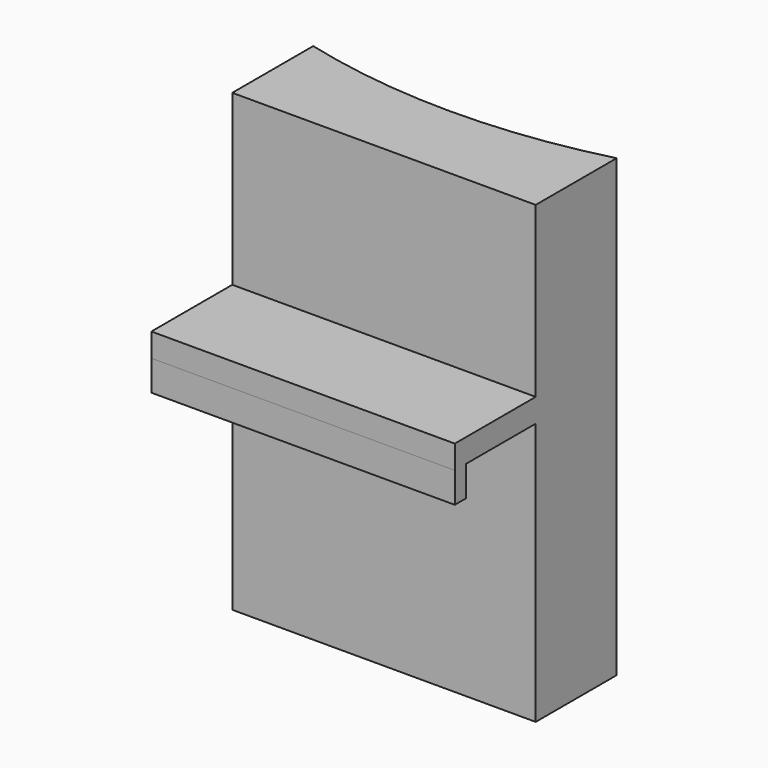
from build123d import *

# Parameters (mm, degrees)
F0_W     = 38.1
F0_H     = 57.15
F1_DEPTH = 12.7
F3_DEPTH = 57.151
F4_W     = 38.1
F4_H     = 2.957883
F5_DEPTH = 12.7
F6_W     = 38.1
F6_H     = 1.730303
F7_DEPTH = 3.81


with BuildPart() as f1:
    # F0 (on Front) → F1 (new body)
    with BuildSketch(Plane.XZ):
        Rectangle(F0_W, F0_H)
    extrude(amount=F1_DEPTH)

    # F2 (on face) → F3 (cut, through all)
    with BuildSketch(Plane.XY.offset(28.575)):
        with BuildLine():
            Line((19.05, 0), (-19.05, 0))
            ThreePointArc((-19.05, 0), (0, -2.419667), (19.05, 0))
        make_face()
    extrude(amount=-F3_DEPTH, mode=Mode.SUBTRACT)

    # F4 (on face) → F5 (join)
    with BuildSketch(Plane.XZ.offset(12.7)):
        with Locations((0, 5.874684)):
            Rectangle(F4_W, F4_H)
    extrude(amount=F5_DEPTH)

    # F6 (on face) → F7 (join)
    with BuildSketch(Plane(origin=(0, 0, 4.395743), x_dir=(1, 0, 0), z_dir=(0, 0, -1))):
        with Locations((0, 24.534848)):
            Rectangle(F6_W, F6_H)
    extrude(amount=F7_DEPTH)


solid = f1.part
